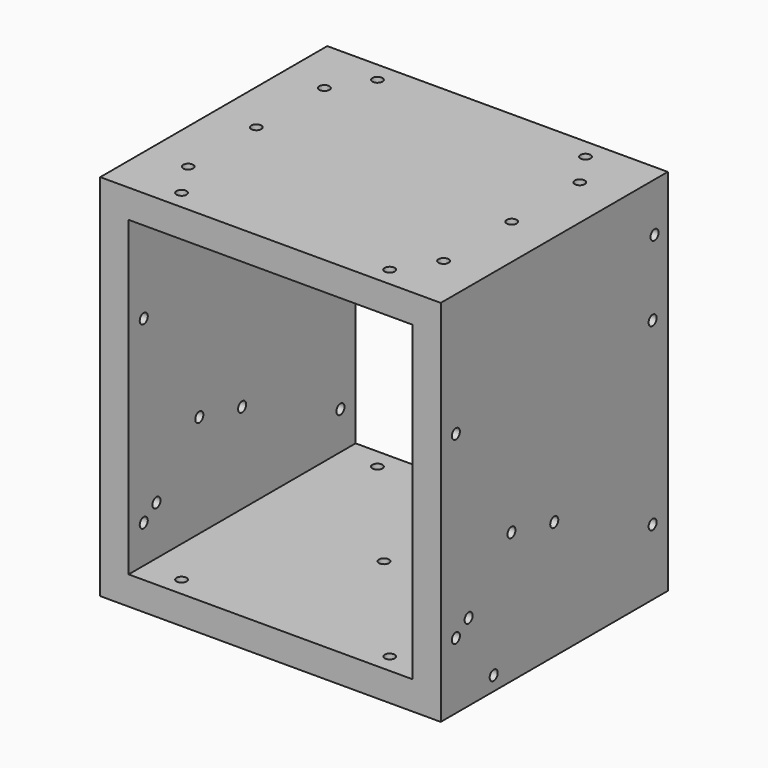
from build123d import *

# Parameters (mm, degrees)
F1_DEPTH  = 190.5
F3_D      = 6.7564
F3_DEPTH  = 50.8
F3_TIP    = 2.0298273432
F5_D      = 6.7564
F7_D      = 6.7564
F9_D      = 6.7564
F11_D     = 6.7564
F11_DEPTH = 19.051
F13_D     = 6.7564


with BuildPart() as f1:
    # F0 (on Front) → F1 (new body)
    with BuildSketch(Plane.XZ):
        Polygon((114.3, -104.775), (95.25, -104.775), (19.05, -104.775), (-44.45, -104.775), (-95.25, -104.775), (-114.3, -104.775), (-114.3, -123.825), (114.3, -123.825), align=None)
        Polygon((95.25, -53.975), (95.25, -104.775), (114.3, -104.775), (114.3, 104.775), (95.25, 104.775), (95.25, 95.25), (95.25, 19.05), (95.25, 9.4333598495), (95.25, -28.575), align=None)
        Polygon((95.25, 104.775), (114.3, 104.775), (114.3, 123.825), (-114.3, 123.825), (-114.3, 104.775), (-95.25, 104.775), align=None)
        Polygon((-114.3, -104.775), (-95.25, -104.775), (-95.25, -53.975), (-95.25, -28.575), (-95.25, 22.225), (-95.25, 104.775), (-114.3, 104.775), align=None)
        Polygon((95.25, 104.775), (114.3, 104.775), (114.3, 123.825), (-114.3, 123.825), (-114.3, 104.775), (-95.25, 104.775), align=None)
    extrude(amount=F1_DEPTH)

    # F3
    with Locations(Plane.XY.offset(123.825)):
        with Locations((-85.725, -38.1), (-85.725, -95.25), (-85.725, -152.4), (85.725, -152.4), (85.725, -95.25), (85.725, -38.1)):
            Hole(F3_D / 2, depth=F3_DEPTH)
            with Locations((0, 0, -(F3_DEPTH + F3_TIP / 2))):  # 118° drill point
                Cone(0, F3_D / 2, F3_TIP, mode=Mode.SUBTRACT)

    # F5 (through all)
    with Locations(Plane.XY.offset(123.825)):
        with Locations((-69.85, -13.4681584314), (69.85, -13.4681584314), (69.85, -177.8), (-69.85, -177.8)):
            Hole(F5_D / 2)

    # F7 (through all)
    with Locations(Plane.YZ.offset(114.3)):
        with Locations((-177.8, 41.275), (-12.7, 41.275), (-12.7, -79.375), (-177.8, -79.375)):
            Hole(F7_D / 2)

    # F9 (through all)
    with Locations(Plane.YZ.offset(114.3)):
        with Locations((-95.25, -44.45)):
            Hole(F9_D / 2)

    # F11 (through all, one way)
    with BuildSketch(Plane.XY.offset(-104.775)):
        with Locations((0, -95.25)):
            Circle(F11_D / 2)
    extrude(amount=-F11_DEPTH, mode=Mode.SUBTRACT)

    # F13 (through all)
    with Locations(Plane.YZ.offset(114.3)):
        with Locations((-146.05, -114.3), (-11.1125, 91.132421875), (-131.1710244843, -35.9210244843), (-167.0920489686, -71.8420489686)):
            Hole(F13_D / 2)


solid = f1.part
